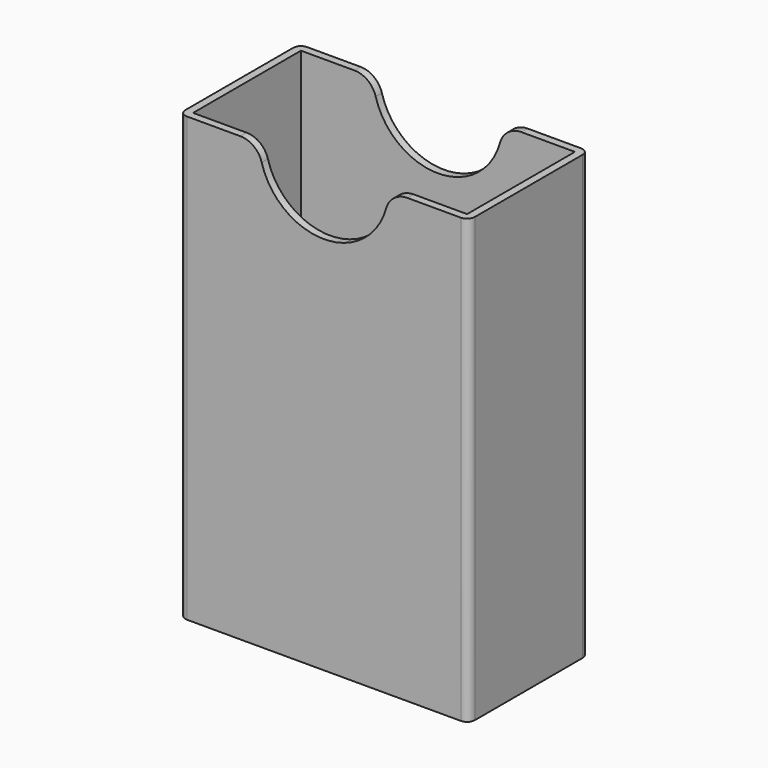
from build123d import *

# Parameters (mm, degrees)
F0_W     = 66.548
F0_H     = 34.544
F1_DEPTH = 101.854
F2_T     = -1.778
F3_R     = 1.778
F4_R     = 14.8402874642
F5_DEPTH = 23.89732
F6_DEPTH = 25.4
F7_R     = 5.08


with BuildPart() as f1:
    # F0 (on Top) → F1 (new body)
    with BuildSketch(Plane.XY):
        with Locations((0, 6.62432)):
            Rectangle(F0_W, F0_H)
    extrude(amount=F1_DEPTH)

    # F2
    f2_openings = [f1.faces().sort_by_distance(p)[0] for p in [
        (0, 6.62432, 101.854),
    ]]
    offset(amount=F2_T, openings=f2_openings)

    # F3
    f3_edges = [f1.edges().sort_by_distance(p)[0] for p in [
        (-33.274, 23.89632, 50.927),
        (-33.274, -10.64768, 50.927),
        (33.274, -10.64768, 50.927),
        (33.274, 23.89632, 50.927),
    ]]
    fillet(f3_edges, radius=F3_R)

    # F4 (on Front) → F5 (cut, through all)
    with BuildSketch(Plane.XZ):
        with Locations((0, 102.1052822471)):
            Circle(F4_R)
    extrude(amount=-F5_DEPTH, mode=Mode.SUBTRACT)

    # F4 (on Front) → F6 (cut)
    with BuildSketch(Plane.XZ):
        with Locations((0, 102.1052822471)):
            Circle(F4_R)
    extrude(amount=F6_DEPTH, mode=Mode.SUBTRACT)

    # F7
    f7_edges = [f1.edges().sort_by_distance(p)[0] for p in [
        (-14.83816, 23.00732, 101.854),
        (14.83816, 23.00732, 101.854),
        (14.83816, -9.75868, 101.854),
        (-14.83816, -9.75868, 101.854),
    ]]
    fillet(f7_edges, radius=F7_R)


solid = f1.part
